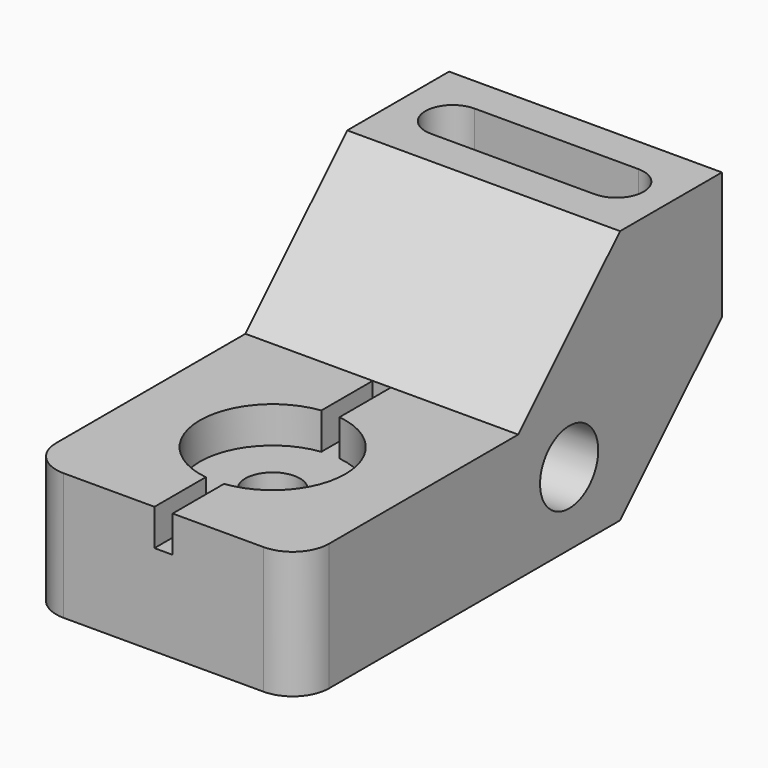
from build123d import *

# Parameters (mm, degrees)
F0_R           = 10.16
F1_DEPTH       = 38.1
F3_D           = 15.24
F3_CBORE_D     = 40.64
F3_CBORE_DEPTH = 10.16
F4_R           = 10.16
F5_W           = 5.08
F5_H           = 76.2
F6_DEPTH       = 10.16
F8_DEPTH       = 27.94


with BuildPart() as f1:
    # F0 (on Right) → F1 (new body, symmetric)
    with BuildSketch(Plane.YZ):
        Polygon((-93.98, 15.24), (-93.98, -20.32), (17.78, -20.32), (53.34, 15.24), (53.34, 50.8), (17.78, 50.8), (-17.78, 15.24), align=None)
        Circle(F0_R, mode=Mode.SUBTRACT)
    extrude(amount=F1_DEPTH, both=True)

    # F3 (through all)
    with Locations(Plane.XY.offset(15.24)):
        with Locations((0, -55.88)):
            CounterBoreHole(F3_D / 2, F3_CBORE_D / 2, F3_CBORE_DEPTH)

    # F4
    f4_edges = [f1.edges().sort_by_distance(p)[0] for p in [
        (38.1, -93.98, -2.54),
        (-38.1, -93.98, -2.54),
    ]]
    fillet(f4_edges, radius=F4_R)

    # F5 (on face) → F6 (cut)
    with BuildSketch(Plane.XY.offset(15.24)):
        with Locations((0, -55.88)):
            Rectangle(F5_W, F5_H)
    extrude(amount=-F6_DEPTH, mode=Mode.SUBTRACT)

    # F7 (on face) → F8 (cut)
    with BuildSketch(Plane.XY.offset(50.8)):
        with BuildLine():
            Line((22.859999, 43.18), (-22.860001, 43.18))
            ThreePointArc((-22.860001, 43.18), (-30.48, 35.56), (-22.86, 27.94))
            Line((-22.86, 27.94), (22.86, 27.94))
            ThreePointArc((22.86, 27.94), (30.48, 35.56), (22.859999, 43.18))
        make_face()
    extrude(amount=-F8_DEPTH, mode=Mode.SUBTRACT)


solid = f1.part
